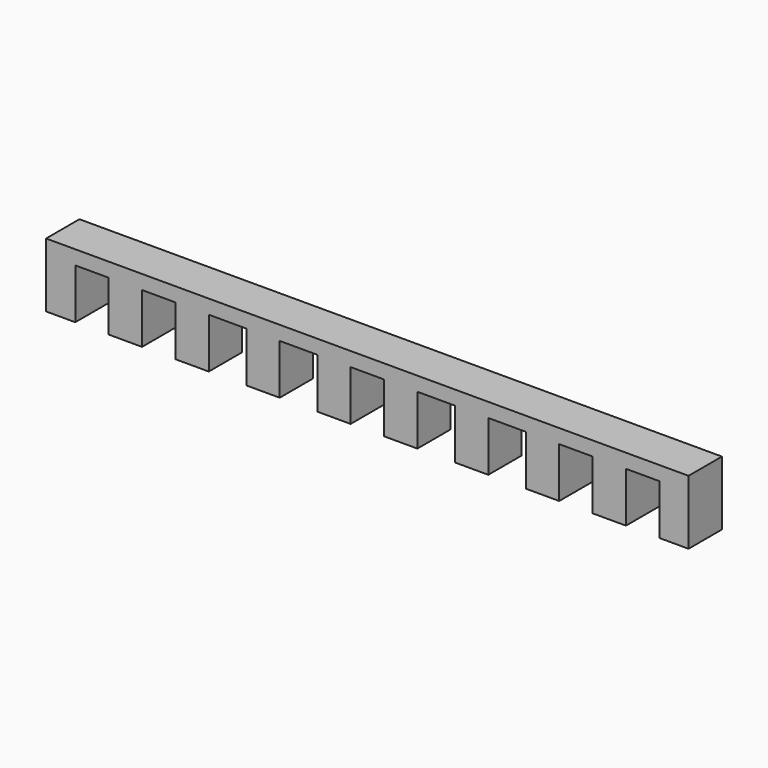
from build123d import *

# Parameters (mm, degrees)
F0_W     = 780
F0_H     = 80
F1_DEPTH = 50
F2_W     = 40
F2_H     = 60
F2_W_2   = 45
F3_DEPTH = 50
F4_W     = 780
F4_H     = 3
F5_DEPTH = 50
F6_W     = 5
F6_H     = 77
F7_DEPTH = 50
F8_W     = 5
F8_H     = 77
F9_DEPTH = 50


with BuildPart() as f1:
    # F0 (on Front) → F1 (new body)
    with BuildSketch(Plane.XZ):
        with Locations((-14.780855, -40)):
            Rectangle(F0_W, F0_H)
    extrude(amount=F1_DEPTH)

    # F2 (on face) → F3 (cut)
    with BuildSketch(Plane.XZ.offset(50)):
        with Locations((-344.780855, -50)):
            Rectangle(F2_W, F2_H)
        with Locations((-264.780855, -50)):
            Rectangle(F2_W, F2_H)
        with Locations((-182.280855, -50)):
            Rectangle(F2_W_2, F2_H)
        with Locations((-97.280855, -50)):
            Rectangle(F2_W_2, F2_H)
        with Locations((-14.780855, -50)):
            Rectangle(F2_W, F2_H)
        with Locations((67.719145, -50)):
            Rectangle(F2_W_2, F2_H)
        with Locations((152.719145, -50)):
            Rectangle(F2_W_2, F2_H)
        with Locations((235.219145, -50)):
            Rectangle(F2_W, F2_H)
        with Locations((315.219145, -50)):
            Rectangle(F2_W, F2_H)
    extrude(amount=-F3_DEPTH, mode=Mode.SUBTRACT)

    # F4 (on face) → F5 (cut, through all)
    with BuildSketch(Plane.XZ.offset(50)):
        with Locations((-14.780855, -1.5)):
            Rectangle(F4_W, F4_H)
    extrude(amount=-F5_DEPTH, mode=Mode.SUBTRACT)

    # F6 (on face) → F7 (cut, through all)
    with BuildSketch(Plane.XZ.offset(50)):
        with Locations((-402.280855, -41.5)):
            Rectangle(F6_W, F6_H)
    extrude(amount=-F7_DEPTH, mode=Mode.SUBTRACT)

    # F8 (on face) → F9 (cut, through all)
    with BuildSketch(Plane.XZ.offset(50)):
        with Locations((372.719145, -41.5)):
            Rectangle(F8_W, F8_H)
    extrude(amount=-F9_DEPTH, mode=Mode.SUBTRACT)


solid = f1.part
